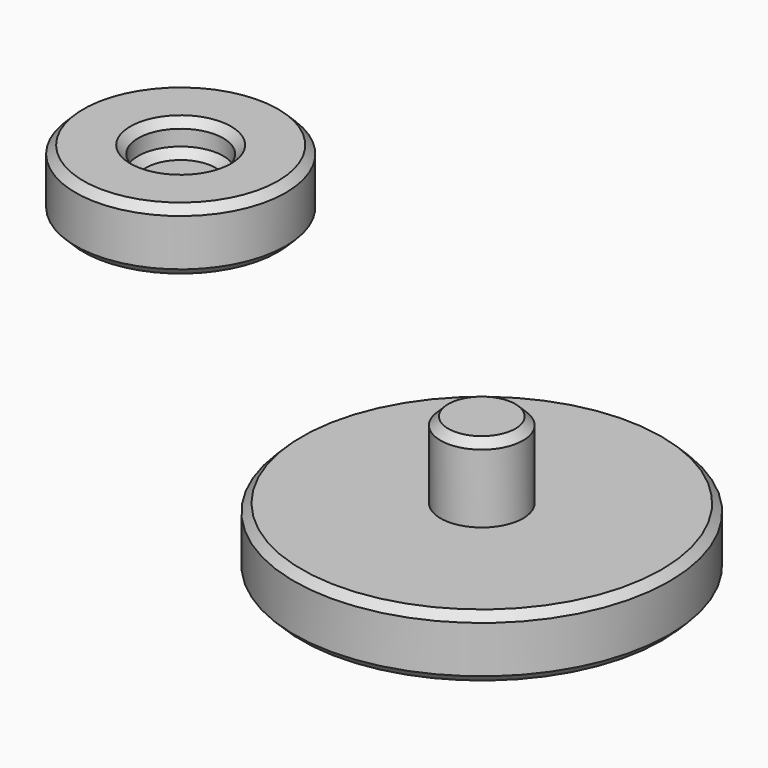
from build123d import *

# Parameters (mm, degrees)
F0_R      = 4.191
F1_DEPTH  = 7.747
F0_R_2    = 19.05
F2_DEPTH  = 6.35
F0_R_3    = 10.668
F0_R_4    = 4.318
F3_DEPTH  = 3.175
F4_DEPTH  = 3.175
F5_SIZE   = 0.79375
F5_2_SIZE = 0.79375


with BuildPart() as f1:
    # F0 (on Top) → F1 (new body)
    with BuildSketch(Plane.XY):
        Circle(F0_R)
    extrude(amount=F1_DEPTH)

    # F0 (on Top) → F2 (join)
    with BuildSketch(Plane.XY):
        Circle(F0_R_2)
        Circle(F0_R, mode=Mode.SUBTRACT)
        Circle(F0_R)
    extrude(amount=-F2_DEPTH)

    # F5#2
    f5_2_edges = [f1.edges().sort_by_distance(p)[0] for p in [
        (19.05, 0, -3.175),
        (-19.05, 0, 0),
        (-19.05, 0, -6.35),
        (-4.191, 0, 7.747),
    ]]
    chamfer(f5_2_edges, length=F5_2_SIZE)


with BuildPart() as f3:
    # F0 (on Top) → F3 (new body)
    with BuildSketch(Plane.XY):
        with Locations((-53.2035343349, 28.3151138574)):
            Circle(F0_R_3)
        with Locations((-53.2035343349, 28.3151138574)):
            Circle(F0_R_4, mode=Mode.SUBTRACT)
    extrude(amount=F3_DEPTH)

    # F0 (on Top) → F4 (join)
    with BuildSketch(Plane.XY):
        with Locations((-53.2035343349, 28.3151138574)):
            Circle(F0_R_3)
        with Locations((-53.2035343349, 28.3151138574)):
            Circle(F0_R_4, mode=Mode.SUBTRACT)
        with Locations((-53.2035343349, 28.3151138574)):
            Circle(F0_R_4)
    extrude(amount=-F4_DEPTH)

    # F5
    f5_edges = [f3.edges().sort_by_distance(p)[0] for p in [
        (-63.871534, 28.315114, 3.175),
        (-57.521534, 28.315114, 0),
        (-57.521534, 28.315114, 3.175),
        (-63.871534, 28.315114, -3.175),
    ]]
    chamfer(f5_edges, length=F5_SIZE)


solid = Compound([f1.part, f3.part])
